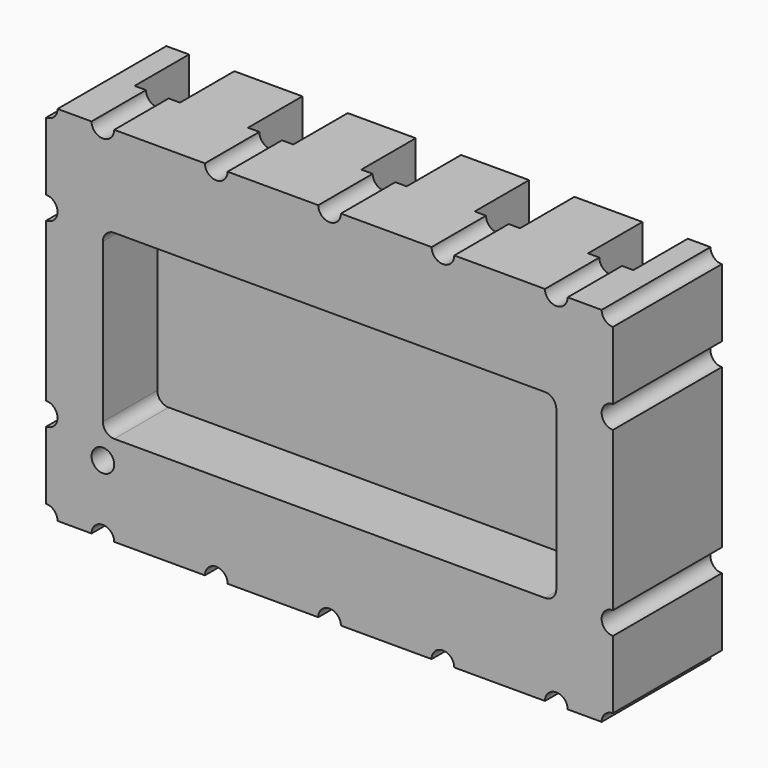
from build123d import *

# Parameters (mm, degrees)
F1_DEPTH = 1.2
F2_R     = 0.1
F3_DEPTH = 0.6
F4_W     = 4
F4_H     = 1.6
F5_DEPTH = 0.6
F6_R     = 0.1
F8_DEPTH = 0.6


with BuildPart() as f1:
    # F0 (on Front) → F1 (new body)
    with BuildSketch(Plane.XZ):
        with BuildLine():
            Line((-2.1, 1.6), (-2.4, 1.6))
            ThreePointArc((-2.4, 1.6), (-2.429289, 1.529289), (-2.5, 1.5))
            Line((-2.5, 1.5), (-2.5, 0.9))
            ThreePointArc((-2.5, 0.9), (-2.4, 0.8), (-2.5, 0.7))
            Line((-2.5, 0.7), (-2.5, -0.7))
            ThreePointArc((-2.5, -0.7), (-2.4, -0.8), (-2.5, -0.9))
            Line((-2.5, -0.9), (-2.5, -1.5))
            ThreePointArc((-2.5, -1.5), (-2.429289, -1.529289), (-2.4, -1.6))
            Line((-2.4, -1.6), (-2.1, -1.6))
            ThreePointArc((-2.1, -1.6), (-2, -1.5), (-1.9, -1.6))
            Line((-1.9, -1.6), (-1.1, -1.6))
            ThreePointArc((-1.1, -1.6), (-1, -1.5), (-0.9, -1.6))
            Line((-0.9, -1.6), (-0.1, -1.6))
            ThreePointArc((-0.1, -1.6), (0, -1.5), (0.1, -1.6))
            Line((0.1, -1.6), (0.9, -1.6))
            ThreePointArc((0.9, -1.6), (1, -1.5), (1.1, -1.6))
            Line((1.1, -1.6), (1.9, -1.6))
            ThreePointArc((1.9, -1.6), (2, -1.5), (2.1, -1.6))
            Line((2.1, -1.6), (2.4, -1.6))
            ThreePointArc((2.4, -1.6), (2.429289, -1.529289), (2.5, -1.5))
            Line((2.5, -1.5), (2.5, -0.9))
            ThreePointArc((2.5, -0.9), (2.4, -0.8), (2.5, -0.7))
            Line((2.5, -0.7), (2.5, 0.7))
            ThreePointArc((2.5, 0.7), (2.4, 0.8), (2.5, 0.9))
            Line((2.5, 0.9), (2.5, 1.5))
            ThreePointArc((2.5, 1.5), (2.429289, 1.529289), (2.4, 1.6))
            Line((2.4, 1.6), (2.1, 1.6))
            ThreePointArc((2.1, 1.6), (2, 1.5), (1.9, 1.6))
            Line((1.9, 1.6), (1.1, 1.6))
            ThreePointArc((1.1, 1.6), (1, 1.5), (0.9, 1.6))
            Line((0.9, 1.6), (0.1, 1.6))
            ThreePointArc((0.1, 1.6), (0, 1.5), (-0.1, 1.6))
            Line((-0.1, 1.6), (-0.9, 1.6))
            ThreePointArc((-0.9, 1.6), (-1, 1.5), (-1.1, 1.6))
            Line((-1.1, 1.6), (-1.9, 1.6))
            ThreePointArc((-1.9, 1.6), (-2, 1.5), (-2.1, 1.6))
        make_face()
    extrude(amount=F1_DEPTH)

    # F2 (on face) → F3 (cut)
    with BuildSketch(Plane.XZ.offset(1.2)):
        with Locations((-2, -1)):
            Circle(F2_R)
    extrude(amount=-F3_DEPTH, mode=Mode.SUBTRACT)

    # F4 (on face) → F5 (cut)
    with BuildSketch(Plane.XZ.offset(1.2)):
        Rectangle(F4_W, F4_H)
    extrude(amount=-F5_DEPTH, mode=Mode.SUBTRACT)

    # F6
    f6_edges = [f1.edges().sort_by_distance(p)[0] for p in [
        (-2, -0.9, -0.8),
        (2, -0.9, 0.8),
        (2, -0.9, -0.8),
        (-2, -0.9, 0.8),
    ]]
    fillet(f6_edges, radius=F6_R)

    # F7 (on face) → F8 (cut)
    with BuildSketch(Plane(origin=(0, 0, 0), x_dir=(-1, 0, 0), z_dir=(0, 1, 0))):
        with BuildLine():
            Line((-1.8, 1.25), (-1.8, 1.6))
            Line((-1.8, 1.6), (-1.9, 1.6))
            ThreePointArc((-1.9, 1.6), (-2, 1.5), (-2.1, 1.6))
            Line((-2.1, 1.6), (-2.2, 1.6))
            Line((-2.2, 1.6), (-2.2, 1.25))
            Line((-2.2, 1.25), (-1.8, 1.25))
        make_face()
        with BuildLine():
            Line((-0.8, 1.25), (-0.8, 1.6))
            Line((-0.8, 1.6), (-0.9, 1.6))
            ThreePointArc((-0.9, 1.6), (-1, 1.5), (-1.1, 1.6))
            Line((-1.1, 1.6), (-1.2, 1.6))
            Line((-1.2, 1.6), (-1.2, 1.25))
            Line((-1.2, 1.25), (-0.8, 1.25))
        make_face()
        with BuildLine():
            Line((-0.1, 1.6), (-0.2, 1.6))
            Line((-0.2, 1.6), (-0.2, 1.25))
            Line((-0.2, 1.25), (0.2, 1.25))
            Line((0.2, 1.25), (0.2, 1.6))
            Line((0.2, 1.6), (0.1, 1.6))
            ThreePointArc((0.1, 1.6), (0, 1.5), (-0.1, 1.6))
        make_face()
        with BuildLine():
            Line((0.9, 1.6), (0.8, 1.6))
            Line((0.8, 1.6), (0.8, 1.25))
            Line((0.8, 1.25), (1.2, 1.25))
            Line((1.2, 1.25), (1.2, 1.6))
            Line((1.2, 1.6), (1.1, 1.6))
            ThreePointArc((1.1, 1.6), (1, 1.5), (0.9, 1.6))
        make_face()
        with BuildLine():
            Line((1.9, 1.6), (1.8, 1.6))
            Line((1.8, 1.6), (1.8, 1.25))
            Line((1.8, 1.25), (2.2, 1.25))
            Line((2.2, 1.25), (2.2, 1.6))
            Line((2.2, 1.6), (2.1, 1.6))
            ThreePointArc((2.1, 1.6), (2, 1.5), (1.9, 1.6))
        make_face()
        with BuildLine():
            Line((1.8, -1.25), (1.8, -1.6))
            Line((1.8, -1.6), (1.9, -1.6))
            ThreePointArc((1.9, -1.6), (2, -1.5), (2.1, -1.6))
            Line((2.1, -1.6), (2.2, -1.6))
            Line((2.2, -1.6), (2.2, -1.25))
            Line((2.2, -1.25), (1.8, -1.25))
        make_face()
        with BuildLine():
            Line((0.8, -1.25), (0.8, -1.6))
            Line((0.8, -1.6), (0.9, -1.6))
            ThreePointArc((0.9, -1.6), (1, -1.5), (1.1, -1.6))
            Line((1.1, -1.6), (1.2, -1.6))
            Line((1.2, -1.6), (1.2, -1.25))
            Line((1.2, -1.25), (0.8, -1.25))
        make_face()
        with BuildLine():
            Line((0.2, -1.25), (-0.2, -1.25))
            Line((-0.2, -1.25), (-0.2, -1.6))
            Line((-0.2, -1.6), (-0.1, -1.6))
            ThreePointArc((-0.1, -1.6), (0, -1.5), (0.1, -1.6))
            Line((0.1, -1.6), (0.2, -1.6))
            Line((0.2, -1.6), (0.2, -1.25))
        make_face()
        with BuildLine():
            Line((-0.9, -1.6), (-0.8, -1.6))
            Line((-0.8, -1.6), (-0.8, -1.25))
            Line((-0.8, -1.25), (-1.2, -1.25))
            Line((-1.2, -1.25), (-1.2, -1.6))
            Line((-1.2, -1.6), (-1.1, -1.6))
            ThreePointArc((-1.1, -1.6), (-1, -1.5), (-0.9, -1.6))
        make_face()
        with BuildLine():
            Line((-1.9, -1.6), (-1.8, -1.6))
            Line((-1.8, -1.6), (-1.8, -1.25))
            Line((-1.8, -1.25), (-2.2, -1.25))
            Line((-2.2, -1.25), (-2.2, -1.6))
            Line((-2.2, -1.6), (-2.1, -1.6))
            ThreePointArc((-2.1, -1.6), (-2, -1.5), (-1.9, -1.6))
        make_face()
    extrude(amount=-F8_DEPTH, mode=Mode.SUBTRACT)


solid = f1.part
